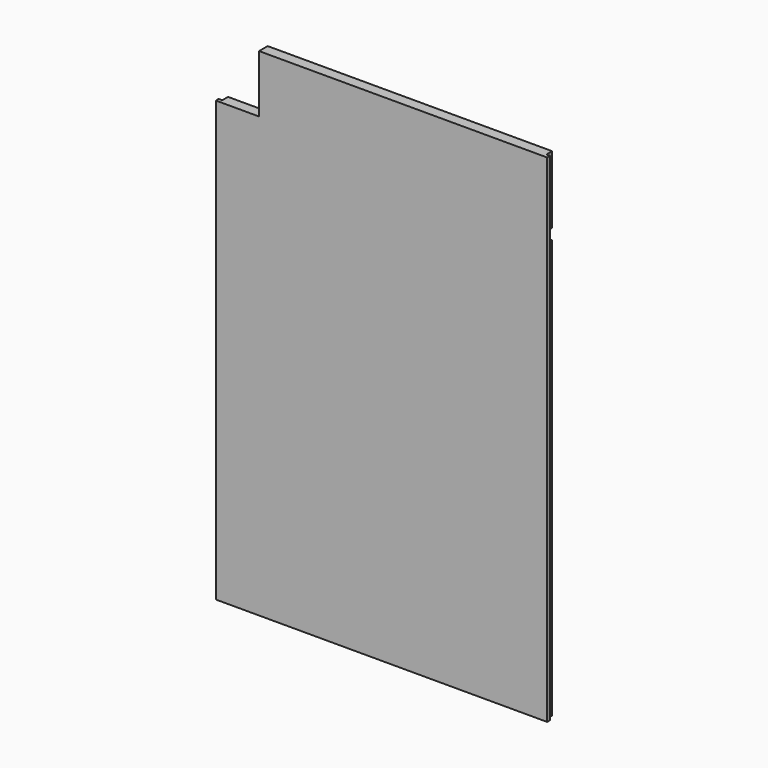
from build123d import *

# Parameters (mm, degrees)
F0_W     = 584.2
F0_H     = 438.15
F1_DEPTH = 9.525
F2_W     = 6.35
F2_H     = 876.3
F3_DEPTH = 12.7
F4_W     = 584.2
F4_H     = 19.05
F5_DEPTH = 6.35
F6_W     = 76.2
F6_H     = 101.6
F7_DEPTH = 19.051


with BuildPart() as f1:
    # F0 (on Front) → F1 (new body, symmetric)
    with BuildSketch(Plane.XZ):
        with Locations((44.1960046741, 219.075)):
            Rectangle(F0_W, F0_H)
        with Locations((44.1960046741, -219.075)):
            Rectangle(F0_W, F0_H)
    extrude(amount=F1_DEPTH, both=True)

    # F2 (on face) → F3 (cut)
    with BuildSketch(Plane(origin=(0, 9.525, 0), x_dir=(-1, 0, 0), z_dir=(0, 1, 0))):
        with Locations((-333.1210046741, 0)):
            Rectangle(F2_W, F2_H)
        with Locations((244.7289953259, 0)):
            Rectangle(F2_W, F2_H)
    extrude(amount=-F3_DEPTH, mode=Mode.SUBTRACT)

    # F4 (on face) → F5 (cut)
    with BuildSketch(Plane(origin=(0, 9.525, 0), x_dir=(-1, 0, 0), z_dir=(0, 1, 0))):
        with Locations((-44.1960046741, 309.5625)):
            Rectangle(F4_W, F4_H)
    extrude(amount=-F5_DEPTH, mode=Mode.SUBTRACT)

    # F6 (on face) → F7 (cut, through all)
    with BuildSketch(Plane.XZ.offset(9.525)):
        with Locations((-209.8039953259, 387.35)):
            Rectangle(F6_W, F6_H)
    extrude(amount=-F7_DEPTH, mode=Mode.SUBTRACT)


solid = f1.part
